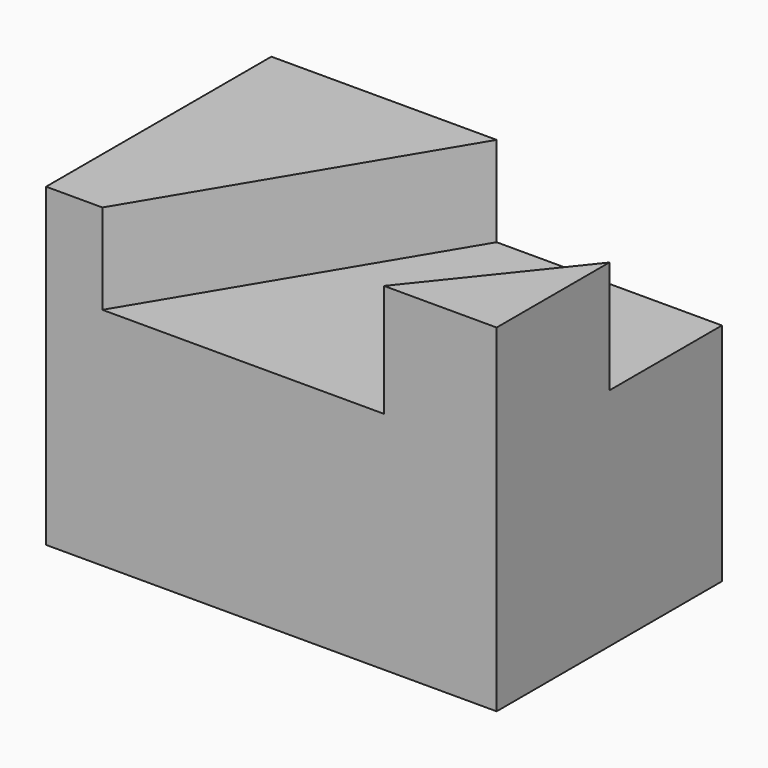
from build123d import *

# Parameters (mm, degrees)
F0_W     = 50.8
F0_H     = 31.75
F1_DEPTH = 25.4
F3_DEPTH = 10.16
F5_DEPTH = 12.7


with BuildPart() as f1:
    # F0 (on Top) → F1 (new body)
    with BuildSketch(Plane.XY):
        with Locations((25.4, 15.875)):
            Rectangle(F0_W, F0_H)
    extrude(amount=F1_DEPTH)

    # F2 (on face) → F3 (join)
    with BuildSketch(Plane.XY.offset(25.4)):
        Polygon((25.4, 31.75), (0, 31.75), (0, 0), (6.35, 0), align=None)
    extrude(amount=F3_DEPTH)

    # F4 (on face) → F5 (join)
    with BuildSketch(Plane.XY.offset(25.4)):
        Polygon((50.8, 15.875), (38.1, 0), (50.8, 0), align=None)
    extrude(amount=F5_DEPTH)


solid = f1.part
